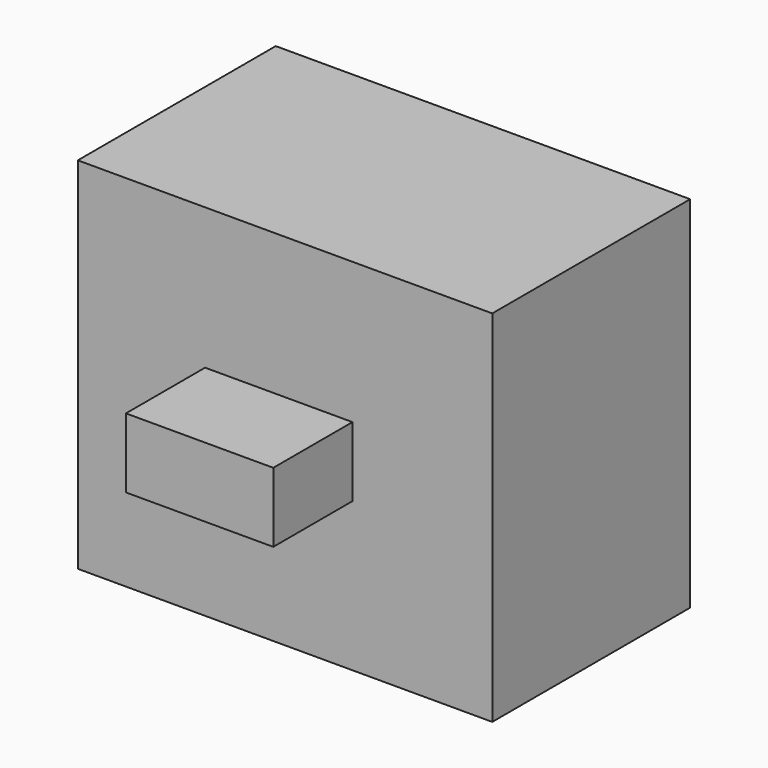
from build123d import *

# Parameters (mm, degrees)
F0_W     = 41.8830788694
F0_H     = 36.3440155052
F0_W_2   = 14.8906260729
F0_H_2   = 7.0348717272
F1_DEPTH = 25
F2_DEPTH = 35


with BuildPart() as f1:
    # F0 (on Front) → F1 (new body)
    with BuildSketch(Plane.XZ):
        with Locations((-24.5682906825, 22.6236723829)):
            Rectangle(F0_W, F0_H)
        with Locations((-25.2038426697, 23.0128932744)):
            Rectangle(F0_W_2, F0_H_2, mode=Mode.SUBTRACT)
    extrude(amount=F1_DEPTH)

    # F0 (on Front) → F2 (join, through all)
    with BuildSketch(Plane.XZ):
        with Locations((-25.2038426697, 23.0128932744)):
            Rectangle(F0_W_2, F0_H_2)
    extrude(amount=F2_DEPTH)


solid = f1.part
